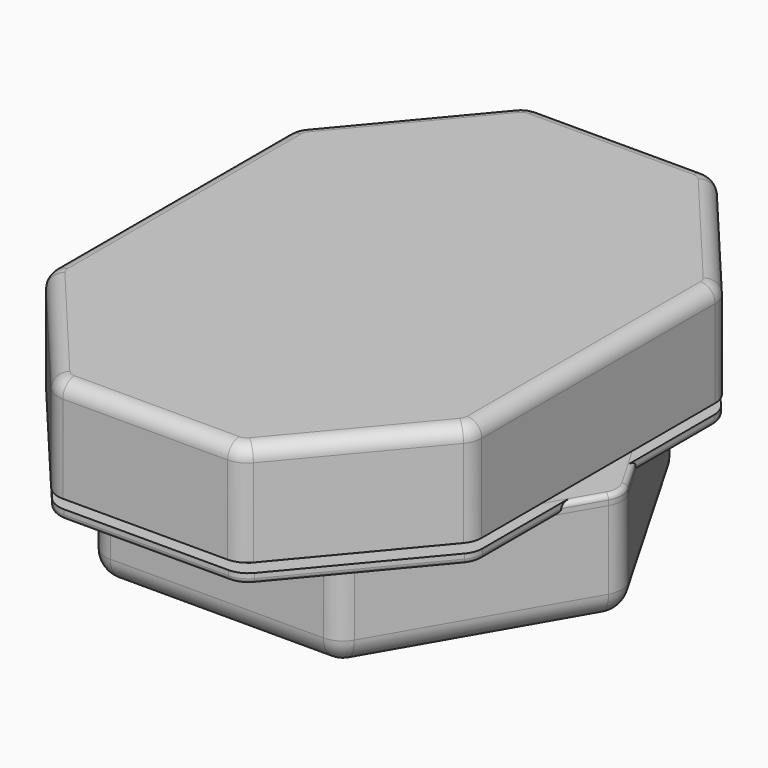
from build123d import *

# Parameters (mm, degrees)
PAD_DEPTH             = 4
SKETCH002_W           = 2
SKETCH002_H           = 63
SKETCH002_W_2         = 14
SKETCH002_H_2         = 14
POCKET_DEPTH          = 304.9295690989
POCKET001_DEPTH       = 2
FILLET_R              = 5
FILLET001_R           = 1
SKETCH004_W           = 16.25
SKETCH004_H           = 16.25
POCKET002_DEPTH       = 1
PAD001_DEPTH          = 21
FILLET002_R           = 5
POCKET003_DEPTH       = 18
CHAMFER_SIZE          = 1
SKETCH007_R           = 1.45
PAD002_DEPTH          = 3
SKETCH008_W           = 19
SKETCH008_H           = 6
POCKET004_DEPTH       = 2
POCKET005_DEPTH       = 20.5900238663
FILLET003_R           = 3
PAD003_DEPTH          = 4
SKETCH010_W           = 14
SKETCH010_H           = 14
POCKET006_DEPTH       = 266.0525216518
SKETCH012_W           = 16.25
SKETCH012_H           = 16.25
POCKET007_DEPTH       = 2
POLARPATTERN_COUNT    = 4
POCKET008_DEPTH       = 2
FILLET004_R           = 5
FILLET005_R           = 1
SKETCH021_W           = 2
SKETCH021_H           = 83.1384387633
POCKET014_DEPTH       = 1
POCKET015_DEPTH       = 1
PAD004_DEPTH          = 2
SKETCH014_W           = 5.5
SKETCH014_H           = 5.5
POCKET009_DEPTH       = 256.0246209489
POCKET010_DEPTH       = 1
POLARPATTERN001_COUNT = 4
SKETCH017_W           = 2
SKETCH017_H           = 83.1384387633
POCKET011_DEPTH       = 1
POCKET012_DEPTH       = 1
SKETCH026_W           = 109.538025
SKETCH026_H           = 119.535534
SKETCH026_W_2         = 81.001179
SKETCH026_H_2         = 97.026596
POCKET018_DEPTH       = 2.001
PAD005_DEPTH          = 21
FILLET006_R           = 5
FILLET007_R           = 5
POCKET013_DEPTH       = 18
POCKET019_DEPTH       = 1.3000381057
CHAMFER001_SIZE       = 1
PAD007_DEPTH          = 2
CHAMFER002_SIZE       = 1
SKETCH029_W           = 5
SKETCH029_H           = 33
POCKET020_DEPTH       = 1.5
SKETCH023_W           = 17.5
SKETCH023_H           = 17.5
PAD006_DEPTH          = 6
SKETCH024_W           = 2
SKETCH024_H           = 81.4063879557
POCKET016_DEPTH       = 2
SKETCH025_W           = 71.194664367
SKETCH025_H           = 2
SKETCH025_W_2         = 72.9267151746
SKETCH025_W_3         = 93.1339745962
POCKET017_DEPTH       = 2


with BuildPart() as body:
    # Sketch001 → Pad (new body)
    with BuildSketch(Plane.XY):
        Polygon((-19.25, -60.9927110601), (19.25, -60.9927110601), (43.9973229729, -31.5), (43.9973229729, 31.5), (19.25, 60.9927110601), (-19.25, 60.9927110601), (-43.9973229729, 31.5), (-43.9973229729, -31.5), align=None)
    extrude(amount=PAD_DEPTH)

    # Sketch002 (on Face10 of Pad) → Pocket (cut, through all)
    with BuildSketch(Plane.XY.offset(4)):
        with Locations((7.75, 0)):
            Rectangle(SKETCH002_W, SKETCH002_H)
        with Locations((24.25, 28.5)):
            Rectangle(SKETCH002_W_2, SKETCH002_H_2)
        with Locations((24.25, 9.5)):
            Rectangle(SKETCH002_W_2, SKETCH002_H_2)
        with Locations((24.25, -9.5)):
            Rectangle(SKETCH002_W_2, SKETCH002_H_2)
        with Locations((24.25, -28.5)):
            Rectangle(SKETCH002_W_2, SKETCH002_H_2)
        with Locations((0, -43.5)):
            Rectangle(SKETCH002_W_2, SKETCH002_H_2)
    pocket = extrude(amount=-POCKET_DEPTH, mode=Mode.SUBTRACT)

    # Mirrored: Pocket across Sketch002 V_Axis
    add(pocket.mirror(Plane(origin=(0, 0, 4), x_dir=(0, 0, 1), z_dir=(1, 0, 0))), mode=Mode.SUBTRACT)

    # Sketch003 (on Face5 of Mirrored) → Pocket001 (cut)
    with BuildSketch(Plane.XY.offset(4)):
        Polygon((-19.25, 60.9927110601), (19.25, 60.9927110601), (43.9973229729, 31.5), (43.9973229729, -31.5), (19.25, -60.9927110601), (-19.25, -60.9927110601), (-43.9973229729, -31.5), (-43.9973229729, 31.5), align=None)
        Polygon((17.75, -57.1945777307), (40.5689601439, -30), (40.5689601439, 30), (17.75, 57.1945777307), (-17.75, 57.1945777307), (-40.5689601439, 30), (-40.5689601439, -30), (-17.75, -57.1945777307), align=None, mode=Mode.SUBTRACT)
    extrude(amount=-POCKET001_DEPTH, mode=Mode.SUBTRACT)

    # Fillet
    fillet_edges = [body.edges().sort_by_distance(p)[0] for p in [
        (-19.25, -60.992711, 1),
        (-43.997323, -31.5, 1),
        (19.25, -60.992711, 1),
        (43.997323, -31.5, 1),
        (43.997323, 31.5, 1),
        (19.25, 60.992711, 1),
        (-19.25, 60.992711, 1),
        (-43.997323, 31.5, 1),
    ]]
    fillet(fillet_edges, radius=FILLET_R)

    # Fillet001
    fillet001_edges = [body.edges().sort_by_distance(p)[0] for p in [
        (43.695786, 31.39025, 0),
    ]]
    fillet(fillet001_edges, radius=FILLET001_R)

    # Sketch004 (on Face8 of Fillet001) → Pocket002 (cut)
    with BuildSketch(Plane(origin=(0, 0, 0), x_dir=(1, 0, 0), z_dir=(0, 0, -1))):
        with Locations((24.375, 28.5)):
            Rectangle(SKETCH004_W, SKETCH004_H)
        with Locations((24.375, 9.5)):
            Rectangle(SKETCH004_W, SKETCH004_H)
        with Locations((24.375, -9.5)):
            Rectangle(SKETCH004_W, SKETCH004_H)
        with Locations((24.375, -28.5)):
            Rectangle(SKETCH004_W, SKETCH004_H)
        with Locations((0, 43.5)):
            Rectangle(SKETCH004_W, SKETCH004_H)
    pocket002 = extrude(amount=-POCKET002_DEPTH, mode=Mode.SUBTRACT)

    # Mirrored001: Pocket002 across Sketch004 V_Axis
    add(pocket002.mirror(Plane(origin=(0, 0, 0), x_dir=(0, 0, -1), z_dir=(1, 0, 0))), mode=Mode.SUBTRACT)


with BuildPart() as body001:
    # Sketch006 → Pad001 (new body)
    with BuildSketch(Plane.XY):
        Polygon((-19.25, 61.2427110601), (19.25, 61.2427110601), (43.9973229729, 31.75), (43.9973229729, -31.75), (19.25, -61.2427110601), (-19.25, -61.2427110601), (-43.9973229729, -31.75), (-43.9973229729, 31.75), align=None)
    extrude(amount=PAD001_DEPTH)

    # Fillet002
    fillet002_edges = [body001.edges().sort_by_distance(p)[0] for p in [
        (43.997323, 31.75, 10.5),
        (19.25, 61.242711, 10.5),
        (43.997323, -31.75, 10.5),
        (19.25, -61.242711, 10.5),
        (-19.25, -61.242711, 10.5),
        (-43.997323, -31.75, 10.5),
        (-43.997323, 31.75, 10.5),
        (-19.25, 61.242711, 10.5),
    ]]
    fillet(fillet002_edges, radius=FILLET002_R)

    # Sketch005 (on Face2 of Fillet002) → Pocket003 (cut)
    with BuildSketch(Plane(origin=(0, 0, 0), x_dir=(1, 0, 0), z_dir=(0, 0, -1))):
        Polygon((-17.8, 57.321182175), (17.8, 57.321182175), (40.6832389048, 30.05), (40.6832389048, -30.05), (17.8, -57.321182175), (-17.8, -57.321182175), (-40.6832389048, -30.05), (-40.6832389048, 30.05), align=None)
    extrude(amount=-POCKET003_DEPTH, mode=Mode.SUBTRACT)

    # Chamfer
    chamfer_edges = [body001.edges().sort_by_distance(p)[0] for p in [
        (0, -57.321182, 0),
        (-29.241619, -43.685591, 0),
        (29.241619, -43.685591, 0),
        (40.683239, 0, 0),
        (29.241619, 43.685591, 0),
        (0, 57.321182, 0),
        (-29.241619, 43.685591, 0),
        (-40.683239, 0, 0),
    ]]
    chamfer(chamfer_edges, length=CHAMFER_SIZE)

    # Sketch007 (on Face35 of Chamfer) → Pad002 (join)
    with BuildSketch(Plane(origin=(0, 0, 18), x_dir=(1, 0, 0), z_dir=(0, 0, -1))):
        with BuildLine():
            ThreePointArc((-17.975, 45.655), (-21.425, 42.205), (-17.975, 38.755))
            Line((-17.975, 38.755), (17.975, 38.755))
            ThreePointArc((17.975, 38.755), (21.425, 42.205), (17.975, 45.655))
            Line((-17.975, 45.655), (17.975, 45.655))
        make_face()
        with Locations((2.875, 42.205)):
            Circle(SKETCH007_R, mode=Mode.SUBTRACT)
        with Locations((17.975, 42.205)):
            Circle(SKETCH007_R, mode=Mode.SUBTRACT)
        with Locations((-2.875, 42.205)):
            Circle(SKETCH007_R, mode=Mode.SUBTRACT)
        with Locations((-17.975, 42.205)):
            Circle(SKETCH007_R, mode=Mode.SUBTRACT)
        with BuildLine():
            ThreePointArc((-17.975, -38.755), (-21.425, -42.205), (-17.975, -45.655))
            Line((-17.975, -45.655), (17.975, -45.655))
            ThreePointArc((17.975, -45.655), (21.425, -42.205), (17.975, -38.755))
            Line((-17.975, -38.755), (17.975, -38.755))
        make_face()
        with Locations((2.875, -42.205)):
            Circle(SKETCH007_R, mode=Mode.SUBTRACT)
        with Locations((17.975, -42.205)):
            Circle(SKETCH007_R, mode=Mode.SUBTRACT)
        with Locations((-17.975, -42.205)):
            Circle(SKETCH007_R, mode=Mode.SUBTRACT)
        with Locations((-2.875, -42.205)):
            Circle(SKETCH007_R, mode=Mode.SUBTRACT)
    extrude(amount=PAD002_DEPTH)

    # Sketch008 (on Face32 of Pad002) → Pocket004 (cut)
    with BuildSketch(Plane(origin=(33.5283402126, 38.5768762211, 0), x_dir=(0.6427876097, -0.7660444431, 0), z_dir=(-0.7660444431, -0.6427876097, 0))):
        with Locations((0, 14)):
            Rectangle(SKETCH008_W, SKETCH008_H)
    extrude(amount=-POCKET004_DEPTH, mode=Mode.SUBTRACT)

    # Sketch009 (on Face48 of Pocket004) → Pocket005 (cut, through all)
    with BuildSketch(Plane(origin=(35.0604290989, 39.8624514404, 0), x_dir=(0.6427876097, -0.7660444431, 0), z_dir=(-0.7660444431, -0.6427876097, 0))):
        Polygon((-3, 17.6), (3, 17.6), (4, 15), (-4, 15), align=None)
    extrude(amount=-POCKET005_DEPTH, mode=Mode.SUBTRACT)

    # Fillet003
    fillet003_edges = [body001.edges().sort_by_distance(p)[0] for p in [
        (0, 61.242711, 21),
        (-19.031553, 60.77425, 21),
        (19.031553, 60.77425, 21),
        (-31.788115, 46.300368, 21),
        (31.788115, 46.300368, 21),
        (-43.695786, 31.64025, 21),
        (43.695786, 31.64025, 21),
        (-43.997323, 0, 21),
        (43.997323, 0, 21),
        (-43.695786, -31.64025, 21),
        (43.695786, -31.64025, 21),
        (-31.788115, -46.300368, 21),
        (31.788115, -46.300368, 21),
        (-19.031553, -60.77425, 21),
        (19.031553, -60.77425, 21),
        (0, -61.242711, 21),
    ]]
    fillet(fillet003_edges, radius=FILLET003_R)


with BuildPart() as body001_1:
    # Body001 placement: moved
    add(body001.part.moved(Location((0, 0, 4))))


with BuildPart() as top_plate:
    # Sketch011 → Pad003 (new body)
    with BuildSketch(Plane.XY):
        Polygon((-49.5, 0), (-24.75, -42.8682574873), (24.75, -42.8682574873), (49.5, 0), (24.75, 42.8682574873), (-24.75, 42.8682574873), align=None)
    extrude(amount=PAD003_DEPTH)

    # Sketch010 (on Face8 of Pad003) → Pocket006 (cut, through all)
    with BuildSketch(Plane.XY.offset(4)):
        with Locations((-9.5, 9.5)):
            Rectangle(SKETCH010_W, SKETCH010_H)
        with Locations((-28.5, 9.5)):
            Rectangle(SKETCH010_W, SKETCH010_H)
        with Locations((-9.5, 28.5)):
            Rectangle(SKETCH010_W, SKETCH010_H)
    pocket006 = extrude(amount=-POCKET006_DEPTH, mode=Mode.SUBTRACT)

    # Sketch012 → Pocket007 (cut)
    with BuildSketch(Plane.XY.offset(5)):
        with Locations((-9.5, 9.5)):
            Rectangle(SKETCH012_W, SKETCH012_H)
        with Locations((-28.5, 9.5)):
            Rectangle(SKETCH012_W, SKETCH012_H)
        with Locations((-9.5, 28.5)):
            Rectangle(SKETCH012_W, SKETCH012_H)
    pocket007 = extrude(amount=-POCKET007_DEPTH, mode=Mode.SUBTRACT)

    # PolarPattern: Pocket007, Pocket006 ×4 about axis
    polarpattern_axis = Axis((0, 0, 5), (0, 0, 1))
    for i in range(1, POLARPATTERN_COUNT):
        add(pocket007.rotate(polarpattern_axis, i * 360 / POLARPATTERN_COUNT), mode=Mode.SUBTRACT)
        add(pocket006.rotate(polarpattern_axis, i * 360 / POLARPATTERN_COUNT), mode=Mode.SUBTRACT)

    # Sketch013 (on Face4 of PolarPattern) → Pocket008 (cut)
    with BuildSketch(Plane(origin=(0, 0, 0), x_dir=(1, 0, 0), z_dir=(0, 0, -1))):
        Polygon((24.75, -42.8682574873), (49.5, 0), (24.75, 42.8682574873), (-24.75, 42.8682574873), (-49.5, 0), (-24.75, -42.8682574873), align=None)
        Polygon((-24, -41.5692193817), (24, -41.5692193817), (48, 0), (24, 41.5692193817), (-24, 41.5692193817), (-48, 0), align=None, mode=Mode.SUBTRACT)
    extrude(amount=-POCKET008_DEPTH, mode=Mode.SUBTRACT)

    # Fillet004
    fillet004_edges = [top_plate.edges().sort_by_distance(p)[0] for p in [
        (49.5, 0, 3),
        (24.75, -42.868257, 3),
        (-24.75, -42.868257, 3),
        (-49.5, 0, 3),
        (-24.75, 42.868257, 3),
        (24.75, 42.868257, 3),
    ]]
    fillet(fillet004_edges, radius=FILLET004_R)

    # Fillet005
    fillet005_edges = [top_plate.edges().sort_by_distance(p)[0] for p in [
        (37.125, -21.434129, 4),
        (37.125, 21.434129, 4),
        (48.726497, 0, 4),
        (24.363249, -42.198385, 4),
        (0, -42.868257, 4),
        (-24.363249, -42.198385, 4),
        (-37.125, -21.434129, 4),
        (-48.726497, 0, 4),
        (-37.125, 21.434129, 4),
        (-24.363249, 42.198385, 4),
        (0, 42.868257, 4),
        (24.363249, 42.198385, 4),
    ]]
    fillet(fillet005_edges, radius=FILLET005_R)

    # Sketch021 (on Face81 of Fillet005) → Pocket014 (cut)
    with BuildSketch(Plane(origin=(0, 0, 0), x_dir=(1, 0, 0), z_dir=(0, 0, -1))):
        with Locations((-19, 0)):
            Rectangle(SKETCH021_W, SKETCH021_H)
        Rectangle(SKETCH021_W, SKETCH021_H)
        with Locations((19, 0)):
            Rectangle(SKETCH021_W, SKETCH021_H)
    extrude(amount=-POCKET014_DEPTH, mode=Mode.SUBTRACT)

    # Sketch022 (on Face82 of Pocket014) → Pocket015 (cut)
    with BuildSketch(Plane(origin=(0, 0, 0), x_dir=(1, 0, 0), z_dir=(0, 0, -1))):
        Polygon((-37.6076951546, 18), (-36.4529946162, 20), (36.4529946162, 20), (37.6076951546, 18), align=None)
        Polygon((-47.4226497308, 1), (-48, 0), (-47.4226497308, -1), (47.4226497308, -1), (48, 0), (47.4226497308, 1), align=None)
        Polygon((-37.6076951546, -18), (-36.4529946162, -20), (36.4529946162, -20), (37.6076951546, -18), align=None)
    extrude(amount=-POCKET015_DEPTH, mode=Mode.SUBTRACT)


with BuildPart() as top_plate_1:
    # Body002 placement: moved
    add(top_plate.part.moved(Location((0, 0, -2))))


with BuildPart() as light_shelf:
    # Sketch015 → Pad004 (new body)
    with BuildSketch(Plane.XY):
        Polygon((24, -41.5692193817), (48, 0), (24, 41.5692193817), (-24, 41.5692193817), (-48, 0), (-24, -41.5692193817), align=None)
    extrude(amount=PAD004_DEPTH)

    # Sketch014 (on Face8 of Pad004) → Pocket009 (cut, through all)
    with BuildSketch(Plane.XY.offset(2)):
        with Locations((-9.5, 9.5)):
            Rectangle(SKETCH014_W, SKETCH014_H)
        with Locations((-28.5, 9.5)):
            Rectangle(SKETCH014_W, SKETCH014_H)
        with Locations((-9.5, 28.5)):
            Rectangle(SKETCH014_W, SKETCH014_H)
    pocket009 = extrude(amount=-POCKET009_DEPTH, mode=Mode.SUBTRACT)

    # Sketch016 (on Face4 of Pocket009) → Pocket010 (cut)
    with BuildSketch(Plane(origin=(0, 0, 0), x_dir=(1, 0, 0), z_dir=(0, 0, -1))):
        Polygon((-26.5865828382, -14.1193976626), (-23.8806023374, -11.4134171618), (-23.8806023374, -7.5865828382), (-26.5865828382, -4.8806023374), (-30.4134171618, -4.8806023374), (-33.1193976626, -7.5865828382), (-33.1193976626, -11.4134171618), (-30.4134171618, -14.1193976626), align=None)
        Polygon((-4.8806023374, -11.4134171618), (-4.8806023374, -7.5865828382), (-7.5865828382, -4.8806023374), (-11.4134171618, -4.8806023374), (-14.1193976626, -7.5865828382), (-14.1193976626, -11.4134171618), (-11.4134171618, -14.1193976626), (-7.5865828382, -14.1193976626), align=None)
        Polygon((-7.5865828382, -33.1193976626), (-4.8806023374, -30.4134171618), (-4.8806023374, -26.5865828382), (-7.5865828382, -23.8806023374), (-11.4134171618, -23.8806023374), (-14.1193976626, -26.5865828382), (-14.1193976626, -30.4134171618), (-11.4134171618, -33.1193976626), align=None)
    pocket010 = extrude(amount=-POCKET010_DEPTH, mode=Mode.SUBTRACT)

    # PolarPattern001: Pocket010, Pocket009 ×4 about axis
    polarpattern001_axis = Axis((0, 0, 0), (0, 0, -1))
    for i in range(1, POLARPATTERN001_COUNT):
        add(pocket010.rotate(polarpattern001_axis, i * 360 / POLARPATTERN001_COUNT), mode=Mode.SUBTRACT)
        add(pocket009.rotate(polarpattern001_axis, i * 360 / POLARPATTERN001_COUNT), mode=Mode.SUBTRACT)

    # Sketch017 (on Face5 of PolarPattern001) → Pocket011 (cut)
    with BuildSketch(Plane.XY.offset(2)):
        Rectangle(SKETCH017_W, SKETCH017_H)
        with Locations((-19, 0)):
            Rectangle(SKETCH017_W, SKETCH017_H)
        with Locations((19, 0)):
            Rectangle(SKETCH017_W, SKETCH017_H)
    extrude(amount=-POCKET011_DEPTH, mode=Mode.SUBTRACT)

    # Sketch018 (on Face9 of Pocket011) → Pocket012 (cut)
    with BuildSketch(Plane.XY.offset(2)):
        Polygon((-47.4226497308, 1), (-48, 0), (-47.4226497308, -1), (47.4226497308, -1), (48, 0), (47.4226497308, 1), align=None)
        Polygon((-36.4529946162, 20), (-37.6076951546, 18), (37.6076951546, 18), (36.4529946162, 20), align=None)
        Polygon((-37.6076951546, -18), (-36.4529946162, -20), (36.4529946162, -20), (37.6076951546, -18), align=None)
    extrude(amount=-POCKET012_DEPTH, mode=Mode.SUBTRACT)

    # Sketch026 → Pocket018 (cut, through all)
    with BuildSketch(Plane.XY):
        with Locations((-0.6002575, -1.574987)):
            Rectangle(SKETCH026_W, SKETCH026_H)
        with Locations((-0.6272815, -2.534744)):
            Rectangle(SKETCH026_W_2, SKETCH026_H_2, mode=Mode.SUBTRACT)
    extrude(amount=POCKET018_DEPTH, mode=Mode.SUBTRACT)


with BuildPart() as light_shelf_1:
    # Body003 placement: moved
    add(light_shelf.part.moved(Location((0, 0, -8))))


with BuildPart() as body004:
    # Sketch019 → Pad005 (new body)
    with BuildSketch(Plane.XY):
        Polygon((24.75, -42.8682574873), (49.5, 0), (24.75, 42.8682574873), (-24.75, 42.8682574873), (-49.5, 0), (-24.75, -42.8682574873), align=None)
    extrude(amount=-PAD005_DEPTH)

    # Fillet006
    fillet006_edges = [body004.edges().sort_by_distance(p)[0] for p in [
        (49.5, 0, -10.5),
        (24.75, -42.868257, -10.5),
        (24.75, 42.868257, -10.5),
        (-24.75, 42.868257, -10.5),
        (-49.5, 0, -10.5),
        (-24.75, -42.868257, -10.5),
    ]]
    fillet(fillet006_edges, radius=FILLET006_R)

    # Fillet007
    fillet007_edges = [body004.edges().sort_by_distance(p)[0] for p in [
        (37.125, -21.434129, -21),
        (24.363249, -42.198385, -21),
        (48.726497, 0, -21),
        (0, -42.868257, -21),
        (37.125, 21.434129, -21),
        (-24.363249, -42.198385, -21),
        (24.363249, 42.198385, -21),
        (-37.125, -21.434129, -21),
        (0, 42.868257, -21),
        (-48.726497, 0, -21),
        (-24.363249, 42.198385, -21),
        (-37.125, 21.434129, -21),
    ]]
    fillet(fillet007_edges, radius=FILLET007_R)

    # Sketch020 (on Face4 of Fillet007) → Pocket013 (cut)
    with BuildSketch(Plane.XY):
        Polygon((24, -41.5692193817), (48, 0), (24, 41.5692193816), (-24, 41.5692193816), (-48, 0), (-24, -41.5692193816), align=None)
    extrude(amount=-POCKET013_DEPTH, mode=Mode.SUBTRACT)

    # Sketch027 (on Face20 of Pocket013) → Pocket019 (cut, through all)
    with BuildSketch(Plane.XZ.offset(-41.5692193816)):
        Polygon((-4, -14), (-3, -16.6), (3, -16.6), (4, -14), align=None)
    extrude(amount=-POCKET019_DEPTH, mode=Mode.SUBTRACT)

    # Chamfer001
    chamfer001_edges = [body004.edges().sort_by_distance(p)[0] for p in [
        (0, 42.832127, -16.6),
        (3.615385, 42.868257, -15),
        (0, 42.868257, -14),
        (-3.615385, 42.868257, -15),
        (-3.115202, 42.859221, -16.300474),
        (3.115202, 42.859221, -16.300474),
    ]]
    chamfer(chamfer001_edges, length=CHAMFER001_SIZE)

    # Sketch028 (on Face43 of Chamfer001) → Pad007 (join)
    with BuildSketch(Plane.XY.offset(-10.25)):
        Polygon((24.25, -42.0022320835), (48.5, 0), (24.25, 42.0022320835), (-24.25, 42.0022320835), (-48.5, 0), (-24.25, -42.0022320835), align=None)
        Polygon((46.5, 0), (23.25, 40.270181276), (-23.25, 40.270181276), (-46.5, 0), (-23.25, -40.270181276), (23.25, -40.270181276), align=None, mode=Mode.SUBTRACT)
    extrude(amount=PAD007_DEPTH)

    # Chamfer002
    chamfer002_edges = [body004.edges().sort_by_distance(p)[0] for p in [
        (0, 40.270181, -10.25),
        (-34.875, 20.135091, -10.25),
        (34.875, 20.135091, -10.25),
        (34.875, -20.135091, -10.25),
        (0, -40.270181, -10.25),
        (-34.875, -20.135091, -10.25),
    ]]
    chamfer(chamfer002_edges, length=CHAMFER002_SIZE)

    # Sketch029 (on Face20 of Chamfer002) → Pocket020 (cut)
    with BuildSketch(Plane.XY.offset(-18)):
        with Locations((-6.25, 23.770181276)):
            Rectangle(SKETCH029_W, SKETCH029_H)
        with Locations((6.25, 23.770181276)):
            Rectangle(SKETCH029_W, SKETCH029_H)
    extrude(amount=-POCKET020_DEPTH, mode=Mode.SUBTRACT)


with BuildPart() as led_walls:
    # Sketch023 → Pad006 (new body)
    with BuildSketch(Plane.XY):
        Polygon((-19.75, 40.7031939779), (-19.75, 19.75), (-35.5973321835, 19.75), (-36.4633575873, 18.25), (-19.75, 18.25), (-19.75, 0.75), (-46.5669872981, 0.75), (-47, 0), (-46.5669872981, -0.75), (-19.75, -0.75), (-19.75, -18.25), (-36.4633575873, -18.25), (-35.5973321835, -19.75), (-19.75, -19.75), (-19.75, -40.7031939779), (-18.25, -40.7031939779), (-18.25, -19.75), (-0.75, -19.75), (-0.75, -40.7031939779), (0.75, -40.7031939779), (0.75, -19.75), (18.25, -19.75), (18.25, -40.7031939779), (19.75, -40.7031939779), (19.75, -19.75), (35.5973321835, -19.75), (36.4633575873, -18.25), (19.75, -18.25), (19.75, -0.75), (46.5669872981, -0.75), (47, 0), (46.5669872981, 0.75), (19.75, 0.75), (19.75, 18.25), (36.4633575873, 18.25), (35.5973321835, 19.75), (19.75, 19.75), (19.75, 40.7031939779), (18.25, 40.7031939779), (18.25, 19.75), (0.75, 19.75), (0.75, 40.7031939779), (-0.75, 40.7031939779), (-0.75, 19.75), (-18.25, 19.75), (-18.25, 40.7031939779), align=None)
        with Locations((-9.5, 9.5)):
            Rectangle(SKETCH023_W, SKETCH023_H, mode=Mode.SUBTRACT)
        with Locations((9.5, 9.5)):
            Rectangle(SKETCH023_W, SKETCH023_H, mode=Mode.SUBTRACT)
        with Locations((9.5, -9.5)):
            Rectangle(SKETCH023_W, SKETCH023_H, mode=Mode.SUBTRACT)
        with Locations((-9.5, -9.5)):
            Rectangle(SKETCH023_W, SKETCH023_H, mode=Mode.SUBTRACT)
    extrude(amount=PAD006_DEPTH)

    # Sketch024 (on Face64 of Pad006) → Pocket016 (cut)
    with BuildSketch(Plane.XY.offset(6)):
        with Locations((-20.75, 0)):
            Rectangle(SKETCH024_W, SKETCH024_H)
        with Locations((-1.75, 0)):
            Rectangle(SKETCH024_W, SKETCH024_H)
        with Locations((17.25, 0)):
            Rectangle(SKETCH024_W, SKETCH024_H)
        with Locations((20.75, 0)):
            Rectangle(SKETCH024_W, SKETCH024_H)
        with Locations((1.75, 0)):
            Rectangle(SKETCH024_W, SKETCH024_H)
        with Locations((-17.25, 0)):
            Rectangle(SKETCH024_W, SKETCH024_H)
    extrude(amount=-POCKET016_DEPTH, mode=Mode.SUBTRACT)

    # Sketch025 (on Face96 of Pocket016) → Pocket017 (cut)
    with BuildSketch(Plane.XY.offset(6)):
        with Locations((0, 20.75)):
            Rectangle(SKETCH025_W, SKETCH025_H)
        with Locations((0, 17.25)):
            Rectangle(SKETCH025_W_2, SKETCH025_H)
        with Locations((0, 1.75)):
            Rectangle(SKETCH025_W_3, SKETCH025_H)
        with Locations((0, -1.75)):
            Rectangle(SKETCH025_W_3, SKETCH025_H)
        with Locations((0, -17.25)):
            Rectangle(SKETCH025_W_2, SKETCH025_H)
        with Locations((0, -20.75)):
            Rectangle(SKETCH025_W, SKETCH025_H)
    extrude(amount=-POCKET017_DEPTH, mode=Mode.SUBTRACT)


with BuildPart() as led_walls_1:
    # Body005 placement: moved
    add(led_walls.part.moved(Location((0, 0, -7))))


solid = Compound([body.part, body001_1.part, top_plate_1.part, light_shelf_1.part, body004.part, led_walls_1.part])
